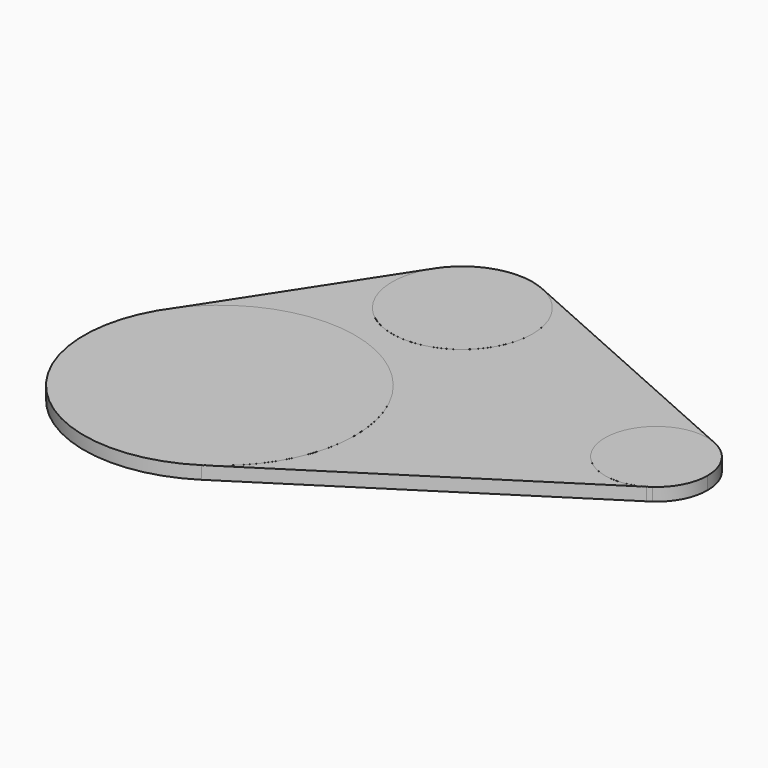
from build123d import *

# Parameters (mm, degrees)
F1_DEPTH = 3
F2_DEPTH = 3.01


with BuildPart() as f1:
    # F0 (on Top) → F1 (new body)
    with BuildSketch(Plane.XY):
        with BuildLine():
            ThreePointArc((-51.277032, 40.053308), (-42.204207, 15.386036), (-21.13981, 31.104868))
            ThreePointArc((-21.13981, 31.104868), (-23.636625, 39.802397), (-30.366682, 45.851152))
            ThreePointArc((-30.366682, 45.851152), (-41.91808, 46.905839), (-51.277032, 40.053308))
        make_face()
        with BuildLine():
            ThreePointArc((-30.366682, 45.851152), (-23.636625, 39.802397), (-21.13981, 31.104868))
            ThreePointArc((-21.13981, 31.104868), (-42.204207, 15.386036), (-51.277032, 40.053308))
            Line((-51.277032, 40.053308), (-78.290202, -1.424753))
            ThreePointArc((-78.290202, -1.424753), (-42.968575, 9.623419), (-21.325177, -20.397287))
            ThreePointArc((-21.325177, -20.397287), (-25.202503, -35.574202), (-35.884244, -47.031638))
            Line((-35.884244, -47.031638), (32.693742, -3.046672))
            ThreePointArc((32.693742, -3.046672), (14.783498, 6.710659), (31.598456, 18.253602))
            Line((31.598456, 18.253602), (-30.366682, 45.851152))
        make_face()
        with BuildLine():
            ThreePointArc((38.694628, 7.325023), (36.76496, 13.840188), (31.598456, 18.253602))
            ThreePointArc((31.598456, 18.253602), (14.783498, 6.710659), (32.693742, -3.046672))
            Line((32.693742, -3.046672), (33.67107, -2.419828))
            ThreePointArc((33.67107, -2.419828), (37.364832, 1.843275), (38.694628, 7.325023))
        make_face()
        with BuildLine():
            ThreePointArc((-21.325177, -20.397287), (-42.968575, 9.623419), (-78.290202, -1.424753))
            ThreePointArc((-78.290202, -1.424753), (-76.139803, -41.943567), (-35.884244, -47.031638))
            ThreePointArc((-35.884244, -47.031638), (-25.202503, -35.574202), (-21.325177, -20.397287))
        make_face()
        with BuildLine():
            Line((33.67107, -2.419828), (32.693742, -3.046672))
            ThreePointArc((32.693742, -3.046672), (33.190015, -2.745113), (33.67107, -2.419828))
        make_face()
    extrude(amount=F1_DEPTH)


with BuildPart() as f2:
    # F0 (on Top) → F2 (new body)
    with BuildSketch(Plane.XY):
        with BuildLine():
            ThreePointArc((-21.325177, -20.397287), (-42.968575, 9.623419), (-78.290202, -1.424753))
            ThreePointArc((-78.290202, -1.424753), (-76.139803, -41.943567), (-35.884244, -47.031638))
            ThreePointArc((-35.884244, -47.031638), (-25.202503, -35.574202), (-21.325177, -20.397287))
        make_face()
        with BuildLine():
            ThreePointArc((38.694628, 7.325023), (36.76496, 13.840188), (31.598456, 18.253602))
            ThreePointArc((31.598456, 18.253602), (14.783498, 6.710659), (32.693742, -3.046672))
            Line((32.693742, -3.046672), (33.67107, -2.419828))
            ThreePointArc((33.67107, -2.419828), (37.364832, 1.843275), (38.694628, 7.325023))
        make_face()
        with BuildLine():
            ThreePointArc((-51.277032, 40.053308), (-42.204207, 15.386036), (-21.13981, 31.104868))
            ThreePointArc((-21.13981, 31.104868), (-23.636625, 39.802397), (-30.366682, 45.851152))
            ThreePointArc((-30.366682, 45.851152), (-41.91808, 46.905839), (-51.277032, 40.053308))
        make_face()
    extrude(amount=F2_DEPTH)


solid = Compound([f1.part, f2.part])
